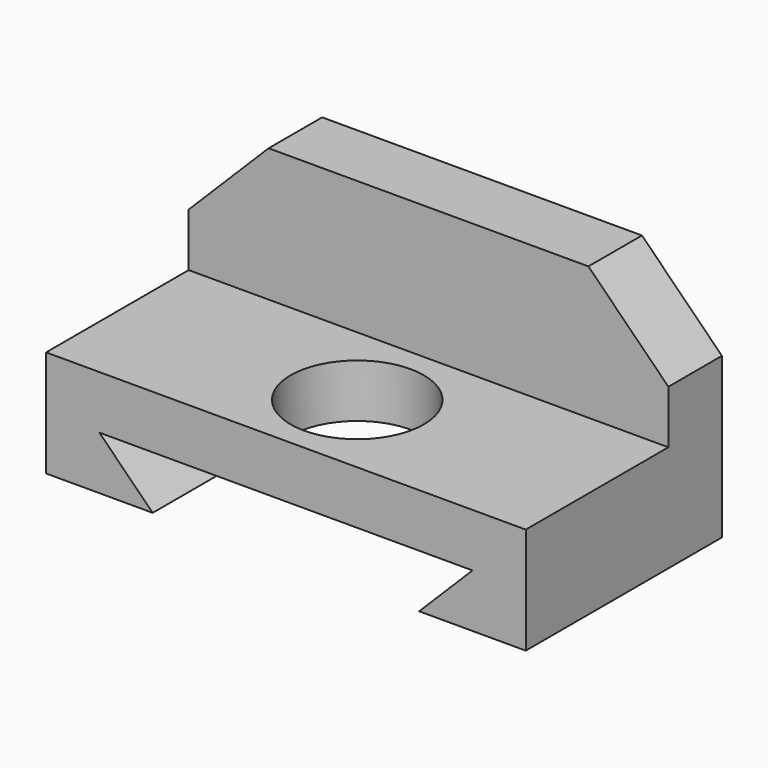
from build123d import *

# Parameters (mm, degrees)
F0_W      = 45
F0_H      = 10
F1_DEPTH  = 23
F2_W      = 30
F2_H      = 6.27907
F2_W_2    = 7.5
F3_DEPTH  = 12.5
F5_DEPTH  = 6.28007
F7_DEPTH  = 6.28007
F8_W      = 25
F8_H      = 23
F9_DEPTH  = 5
F11_DEPTH = 23.001
F12_R     = 6.25
F13_DEPTH = 10.001


with BuildPart() as f1:
    # F0 (on Front) → F1 (new body)
    with BuildSketch(Plane.XZ):
        with Locations((1.831396, -28.768687)):
            Rectangle(F0_W, F0_H)
    extrude(amount=F1_DEPTH)

    # F2 (on face) → F3 (join)
    with BuildSketch(Plane.XY.offset(-23.768687)):
        with Locations((1.831396, -3.139535)):
            Rectangle(F2_W, F2_H)
        with Locations((20.581396, -3.139535)):
            Rectangle(F2_W_2, F2_H)
        with Locations((-16.918604, -3.139535)):
            Rectangle(F2_W_2, F2_H)
    extrude(amount=F3_DEPTH)

    # F4 (on face) → F5 (cut, through all)
    with BuildSketch(Plane.XZ.offset(6.27907)):
        Polygon((16.831396, -11.268687), (24.331396, -18.768687), (24.331396, -11.268687), align=None)
    extrude(amount=-F5_DEPTH, mode=Mode.SUBTRACT)

    # F6 (on face) → F7 (cut, through all)
    with BuildSketch(Plane.XZ.offset(6.27907)):
        Polygon((-20.668604, -11.268687), (-20.668604, -18.768687), (-13.168604, -11.268687), align=None)
    extrude(amount=-F7_DEPTH, mode=Mode.SUBTRACT)

    # F8 (on face) → F9 (cut)
    with BuildSketch(Plane(origin=(0, 0, -33.768687), x_dir=(1, 0, 0), z_dir=(0, 0, -1))):
        with Locations((1.831396, 11.5)):
            Rectangle(F8_W, F8_H)
    extrude(amount=-F9_DEPTH, mode=Mode.SUBTRACT)

    # F10 (on face) → F11 (cut, through all)
    with BuildSketch(Plane.XZ.offset(23)):
        Polygon((-10.668604, -33.768687), (-10.668604, -28.768687), (-15.668604, -28.768687), align=None)
        Polygon((19.331396, -28.768687), (14.331396, -28.768687), (14.331396, -33.768687), align=None)
    extrude(amount=-F11_DEPTH, mode=Mode.SUBTRACT)

    # F12 (on face) → F13 (cut, through all)
    with BuildSketch(Plane.XY.offset(-23.768687)):
        with Locations((1.831396, -14.639535)):
            Circle(F12_R)
    extrude(amount=-F13_DEPTH, mode=Mode.SUBTRACT)


solid = f1.part
